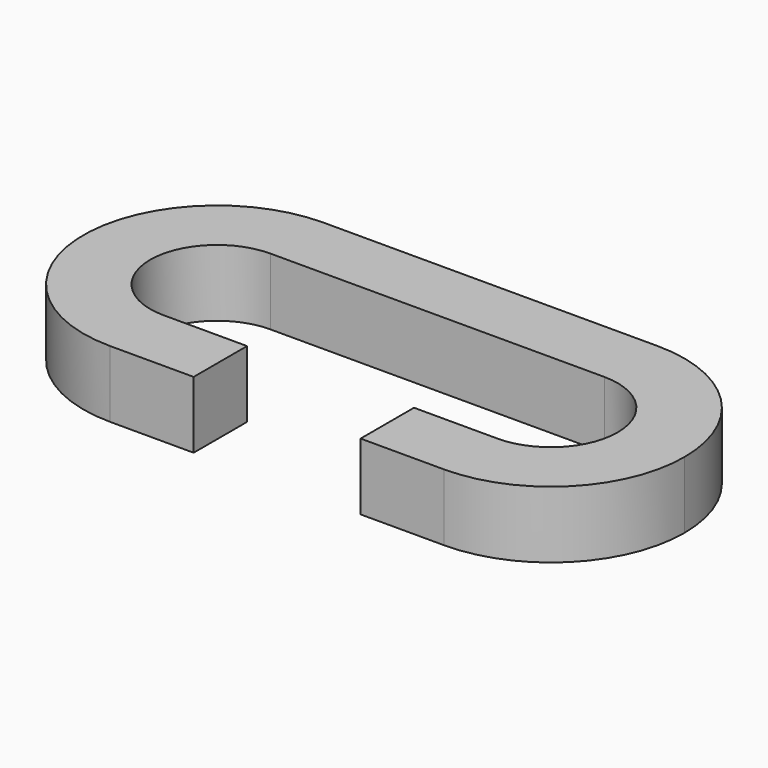
from build123d import *

# Parameters (mm, degrees)
F1_DEPTH = 12.7


with BuildPart() as f1:
    # F0 (on Top) → F1 (new body)
    with BuildSketch(Plane.XY):
        with BuildLine():
            ThreePointArc((0, -25.4), (-8.4122570223, -23.966516889), (-15.875, -19.8278686449))
            Line((-15.875, -19.8278686449), (-15.875, -25.4))
            Line((-15.875, -25.4), (0, -25.4))
        make_face()
        with BuildLine():
            Line((-21.9970452561, 12.7), (0, 12.7))
            ThreePointArc((0, 12.7), (8.9802561211, 8.9802561211), (12.7, 0))
            ThreePointArc((12.7, 0), (8.9802561211, -8.9802561211), (0, -12.7))
            Line((0, -12.7), (-15.875, -12.7))
            Line((-15.875, -12.7), (-15.875, -19.05))
            Line((-15.875, -19.05), (-15.875, -19.8278686449))
            ThreePointArc((-15.875, -19.8278686449), (-8.4122570223, -23.966516889), (0, -25.4))
            ThreePointArc((0, -25.4), (17.9605122421, -17.9605122421), (25.4, 0))
            ThreePointArc((25.4, 0), (17.9605122421, 17.9605122421), (0, 25.4))
            ThreePointArc((0, 25.4), (-12.7, 21.9970452561), (-21.9970452561, 12.7))
        make_face()
        with BuildLine():
            Line((-41.5029547439, 12.7), (-21.9970452561, 12.7))
            ThreePointArc((-21.9970452561, 12.7), (-12.7, 21.9970452561), (0, 25.4))
            Line((0, 25.4), (-63.5, 25.4))
            ThreePointArc((-63.5, 25.4), (-50.8, 21.9970452561), (-41.5029547439, 12.7))
        make_face()
        with BuildLine():
            Line((-63.5, 12.7), (-41.5029547439, 12.7))
            ThreePointArc((-41.5029547439, 12.7), (-50.8, 21.9970452561), (-63.5, 25.4))
            ThreePointArc((-63.5, 25.4), (-88.9, 0), (-63.5, -25.4))
            ThreePointArc((-63.5, -25.4), (-55.0877429777, -23.966516889), (-47.625, -19.8278686449))
            Line((-47.625, -19.8278686449), (-47.625, -19.05))
            Line((-47.625, -19.05), (-47.625, -12.7))
            Line((-47.625, -12.7), (-63.5, -12.7))
            ThreePointArc((-63.5, -12.7), (-76.2, 0), (-63.5, 12.7))
        make_face()
        with BuildLine():
            ThreePointArc((-47.625, -19.8278686449), (-55.0877429777, -23.966516889), (-63.5, -25.4))
            Line((-63.5, -25.4), (-47.625, -25.4))
            Line((-47.625, -25.4), (-47.625, -19.8278686449))
        make_face()
    extrude(amount=F1_DEPTH)


solid = f1.part
